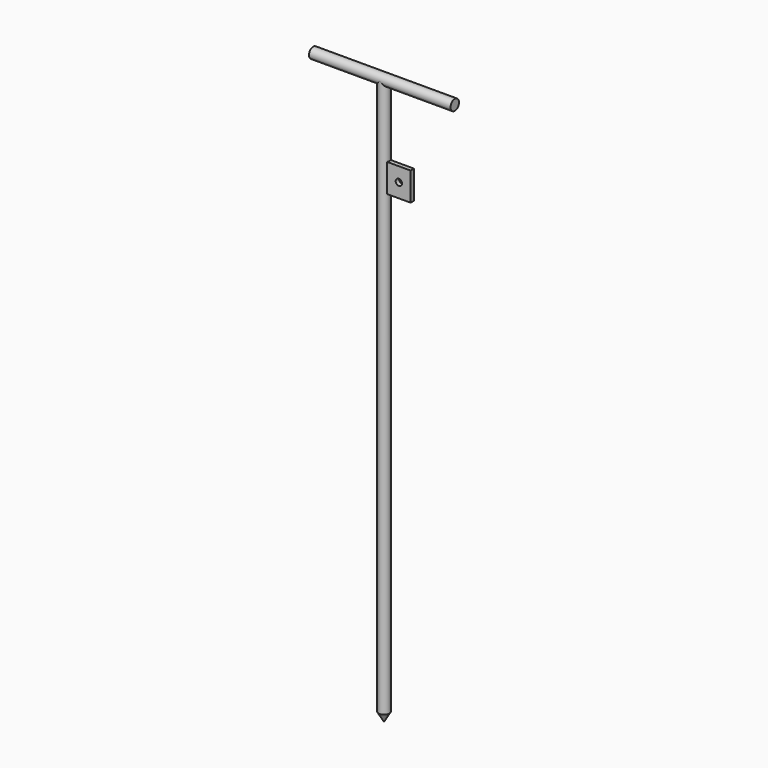
from build123d import *

# Parameters (mm, degrees)
F0_R     = 7.5
F1_DEPTH = 800
F2_R     = 7.5
F3_DEPTH = 100
F4_W     = 40
F4_H     = 40
F5_DEPTH = 3
F7_D     = 9


with BuildPart() as f1:
    # F0 (on Top) → F1 (new body)
    with BuildSketch(Plane.XY):
        Circle(F0_R)
    extrude(amount=F1_DEPTH)

    # F2 (on Right) → F3 (join, symmetric)
    with BuildSketch(Plane.YZ):
        with Locations((0, 800)):
            Circle(F2_R)
    extrude(amount=F3_DEPTH, both=True)

    # F4 (on Front) → F5 (join, symmetric)
    with BuildSketch(Plane.XZ):
        with Locations((20, 680)):
            Rectangle(F4_W, F4_H)
    extrude(amount=F5_DEPTH, both=True)

    # F7 (through all)
    with Locations(Plane.XZ.offset(3)):
        with Locations((23.4369317712, 680)):
            Hole(F7_D / 2)

    # F8 (on Front) → F9 (revolve, cut)
    with BuildSketch(Plane.XZ):
        Polygon((10, 17.2205080757), (0.0577350269, 0), (0.0577350269, -0.1), (10, -0.1), align=None)
    revolve(axis=Axis((0, 0, 4.9), (0, 0, 1)), mode=Mode.SUBTRACT)


solid = f1.part
